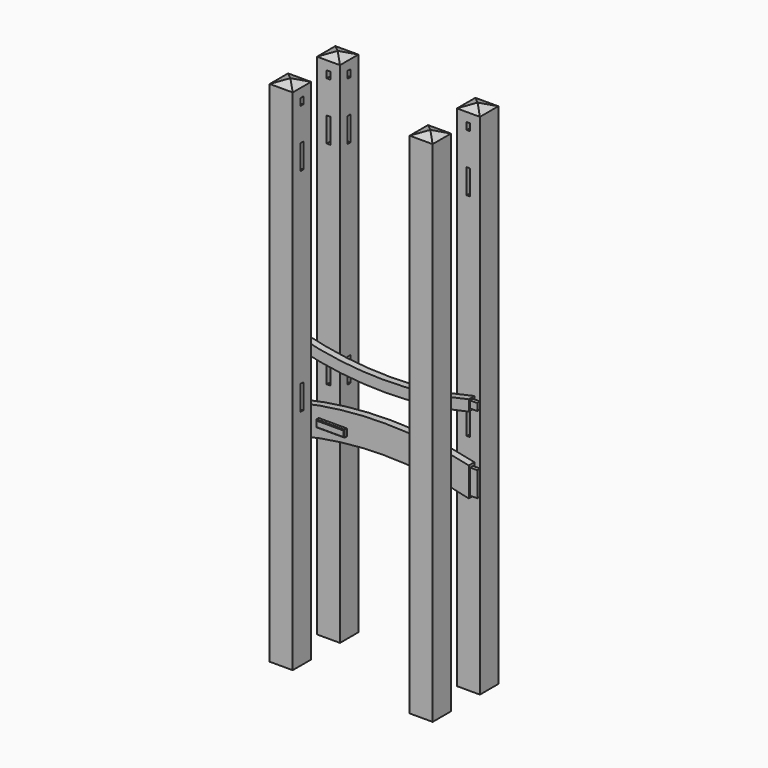
from build123d import *

# Parameters (mm, degrees)
F1_DEPTH   = 12.7
F3_DEPTH   = 12.7
F4_W       = 50.8
F4_H       = 12.7
F5_DEPTH   = 6.35
F6_W       = 41.275
F6_H       = 41.275
F7_DEPTH   = 457.2
F7_FACE1_W = 41.275
F7_FACE1_H = 41.275
F9_DEPTH   = 7.9375
F9_TAPER   = 70
F10_W      = 6.35
F10_H      = 12.7
F10_H_2    = 44.45
F12_DEPTH  = 12.7
F11_W      = 12.7
F11_H      = 12.7
F13_DEPTH  = 3.175
F14_W      = 12.7
F14_H      = 12.7
F15_DEPTH  = 3.175
F16_W      = 12.7
F16_H      = 44.45
F17_DEPTH  = 3.175
F18_W      = 12.7
F18_H      = 44.45
F19_DEPTH  = 3.175
F8_W       = 6.35
F8_H       = 12.7
F8_H_2     = 44.45
F20_DEPTH  = 12.7
F23_W      = 50.8
F23_H      = 12.7
F24_DEPTH  = 12.7
F25_SIZE   = 1.27
F26_SIZE   = 2.54


with BuildPart() as f1:
    # F0 (on Front) → F1 (new body)
    with BuildSketch(Plane.XZ):
        with BuildLine():
            Line((-152.4, 22.225), (-165.1, 22.225))
            Line((-165.1, 22.225), (-165.1, 9.525))
            Line((-165.1, 9.525), (-152.4, 9.525))
            Line((-152.4, 9.525), (-152.4, 5.7641233607))
            ThreePointArc((-152.4, 5.7641233607), (0, -12.7), (152.4, 5.7641233607))
            Line((152.4, 5.7641233607), (152.4, 9.525))
            Line((152.4, 9.525), (165.1, 9.525))
            Line((165.1, 9.525), (165.1, 22.225))
            Line((165.1, 22.225), (152.4, 22.225))
            Line((152.4, 22.225), (152.4, 25.4))
            ThreePointArc((152.4, 25.4), (0, 6.35), (-152.4, 25.4))
            Line((-152.4, 25.4), (-152.4, 22.225))
        make_face()
    extrude(amount=-F1_DEPTH)

    # F11 (on face) → F13 (cut)
    with BuildSketch(Plane.XZ):
        with Locations((-158.75, 15.875)):
            Rectangle(F11_W, F11_H)
        with Locations((158.75, 15.875)):
            Rectangle(F11_W, F11_H)
    extrude(amount=-F13_DEPTH, mode=Mode.SUBTRACT)

    # F14 (on face) → F15 (cut)
    with BuildSketch(Plane(origin=(0, 12.7, 0), x_dir=(-1, 0, 0), z_dir=(0, 1, 0))):
        with Locations((-158.75, 15.875)):
            Rectangle(F14_W, F14_H)
        with Locations((158.75, 15.875)):
            Rectangle(F14_W, F14_H)
    extrude(amount=-F15_DEPTH, mode=Mode.SUBTRACT)


with BuildPart() as f3:
    # F2 (on Front) → F3 (new body)
    with BuildSketch(Plane.XZ):
        with BuildLine():
            Line((-152.4, -84.0155451241), (-165.1, -84.0155451241))
            Line((-165.1, -84.0155451241), (-165.1, -128.4655451241))
            Line((-165.1, -128.4655451241), (-152.4, -128.4655451241))
            Line((-152.4, -128.4655451241), (-152.4, -131.6405451241))
            ThreePointArc((-152.4, -131.6405451241), (0, -112.5905451241), (152.4, -131.6405451241))
            Line((152.4, -131.6405451241), (152.4, -128.4655451241))
            Line((152.4, -128.4655451241), (165.1, -128.4655451241))
            Line((165.1, -128.4655451241), (165.1, -84.0155451241))
            Line((165.1, -84.0155451241), (152.4, -84.0155451241))
            Line((152.4, -84.0155451241), (152.4, -79.3554102101))
            ThreePointArc((152.4, -79.3554102101), (0, -61.7905451241), (-152.4, -79.3554102101))
            Line((-152.4, -79.3554102101), (-152.4, -84.0155451241))
        make_face()
    extrude(amount=-F3_DEPTH)

    # F4 (on face) → F5 (cut)
    with BuildSketch(Plane.XZ):
        with Locations((-92.075, -98.3030451241)):
            Rectangle(F4_W, F4_H)
        with Locations((92.075, -98.3030451241)):
            Rectangle(F4_W, F4_H)
    extrude(amount=-F5_DEPTH, mode=Mode.SUBTRACT)

    # F16 (on face) → F17 (cut)
    with BuildSketch(Plane(origin=(0, 12.7, 0), x_dir=(-1, 0, 0), z_dir=(0, 1, 0))):
        with Locations((-158.75, -106.2405451241)):
            Rectangle(F16_W, F16_H)
        with Locations((158.75, -106.2405451241)):
            Rectangle(F16_W, F16_H)
    extrude(amount=-F17_DEPTH, mode=Mode.SUBTRACT)

    # F18 (on face) → F19 (cut)
    with BuildSketch(Plane.XZ):
        with Locations((-158.75, -106.2405451241)):
            Rectangle(F18_W, F18_H)
        with Locations((158.75, -106.2405451241)):
            Rectangle(F18_W, F18_H)
    extrude(amount=-F19_DEPTH, mode=Mode.SUBTRACT)


with BuildPart() as f7:
    # F6 (on Top) → F7 (new body, symmetric)
    with BuildSketch(Plane.XY):
        with Locations((-125.7886141539, -53.1197041273)):
            Rectangle(F6_W, F6_H)
    extrude(amount=F7_DEPTH, both=True)

    # F7_face1 (on face) → F9 (join)
    with BuildSketch(Plane(origin=(-125.7886141539, -53.1197041273, 457.2), x_dir=(1, 0, 0), z_dir=(0, 0, 1))):
        Rectangle(F7_FACE1_W, F7_FACE1_H)
    extrude(amount=F9_DEPTH, taper=F9_TAPER)

    # F10 (on face) → F12 (cut)
    with BuildSketch(Plane(origin=(0, -32.4822041273, 0), x_dir=(-1, 0, 0), z_dir=(0, 1, 0))):
        with Locations((125.7886141539, 434.975)):
            Rectangle(F10_W, F10_H)
        with Locations((125.7886141539, 347.6625)):
            Rectangle(F10_W, F10_H_2)
        with Locations((125.7886141539, -33.3375)):
            Rectangle(F10_W, F10_H_2)
    extrude(amount=-F12_DEPTH, mode=Mode.SUBTRACT)

    # F8 (on face) → F20 (cut)
    with BuildSketch(Plane.YZ.offset(-105.1511141539)):
        with Locations((-53.1197041273, 434.975)):
            Rectangle(F8_W, F8_H)
        with Locations((-53.1197041273, 347.6625)):
            Rectangle(F8_W, F8_H_2)
        with Locations((-53.1197041273, -33.3375)):
            Rectangle(F8_W, F8_H_2)
    extrude(amount=-F20_DEPTH, mode=Mode.SUBTRACT)


with BuildPart() as f21_1:
    # F21: instance of F7
    add(f7.part.mirror(Plane.YZ))


with BuildPart() as f22_1:
    # F22: instance of F21_1
    add(f21_1.part.mirror(Plane.XZ))


with BuildPart() as f22_2:
    # F22: instance of F7
    add(f7.part.mirror(Plane.XZ))


with BuildPart() as f24:
    # F23 (on face) → F24 (new body)
    with BuildSketch(Plane.XZ.offset(-6.35)):
        with Locations((-92.075, -98.3030451241)):
            Rectangle(F23_W, F23_H)
    extrude(amount=F24_DEPTH)

    # F25
    f25_edges = [f24.edges().sort_by_distance(p)[0] for p in [
        (-92.075, -6.35, -91.953045),
        (-117.475, -6.35, -98.303045),
        (-92.075, -6.35, -104.653045),
        (-66.675, -6.35, -98.303045),
    ]]
    chamfer(f25_edges, length=F25_SIZE)


with BuildPart() as f24b:
    # F23 (on face) → F24, piece 2 (new body)
    with BuildSketch(Plane.XZ.offset(-6.35)):
        with Locations((92.075, -98.3030451241)):
            Rectangle(F23_W, F23_H)
    extrude(amount=F24_DEPTH)

    # F26
    f26_edges = [f24b.edges().sort_by_distance(p)[0] for p in [
        (92.075, -6.35, -91.953045),
        (66.675, -6.35, -98.303045),
        (92.075, -6.35, -104.653045),
        (117.475, -6.35, -98.303045),
    ]]
    chamfer(f26_edges, length=F26_SIZE)


solid = Compound([f1.part, f3.part, f7.part, f21_1.part, f22_1.part, f22_2.part, f24.part])
